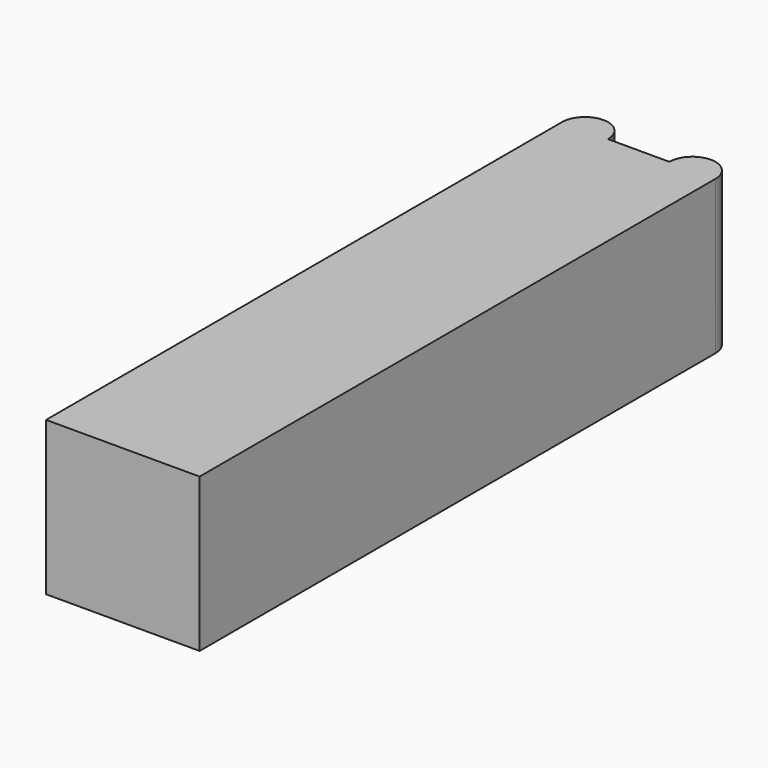
from build123d import *

# Parameters (mm, degrees)
CYLINDER001_R     = 1.5
CYLINDER001_DEPTH = 10
CYLINDER002_R     = 1.5
CYLINDER002_DEPTH = 10
BOX_W             = 10
BOX_H             = 42
BOX_DEPTH         = 10


with BuildPart() as zylinder001:
    # Cylinder001 → Cylinder001 (new body)
    with BuildSketch(Plane(origin=(1.5, 42, 0), x_dir=(1, 0, 0), z_dir=(0, 0, 1))):
        Circle(CYLINDER001_R)
    extrude(amount=CYLINDER001_DEPTH)


with BuildPart() as zylinder002:
    # Cylinder002 → Cylinder002 (new body)
    with BuildSketch(Plane(origin=(8.5, 42, 0), x_dir=(1, 0, 0), z_dir=(0, 0, 1))):
        Circle(CYLINDER002_R)
    extrude(amount=CYLINDER002_DEPTH)


with BuildPart() as fusion:
    # Box → Box (new body)
    with BuildSketch(Plane.XY):
        with Locations((5, 21)):
            Rectangle(BOX_W, BOX_H)
    extrude(amount=BOX_DEPTH)

    # Fusion: union Zylinder001, Zylinder002
    add(zylinder001.part)
    add(zylinder002.part)


solid = fusion.part
